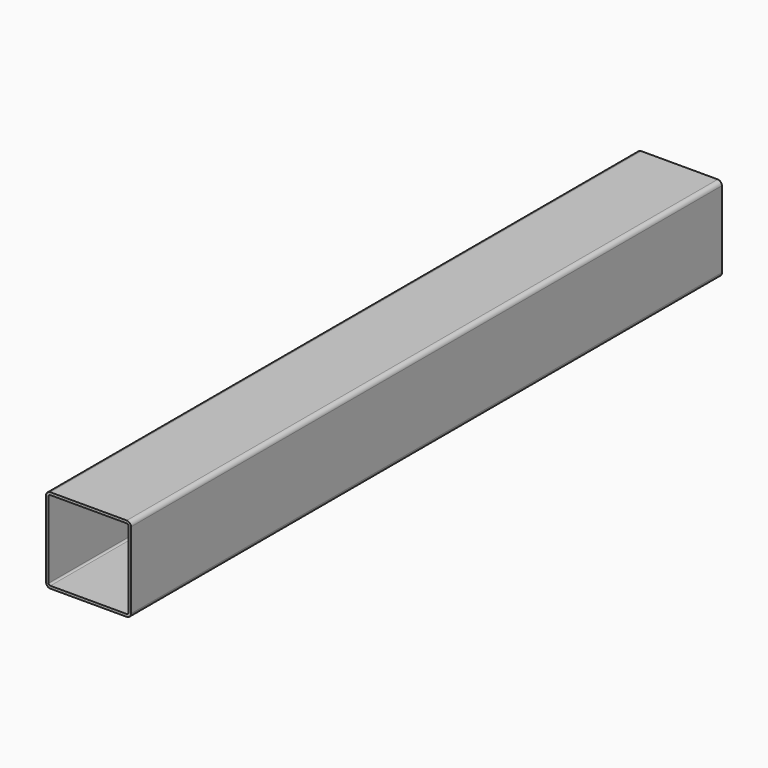
from build123d import *

# Parameters (mm, degrees)
F1_DEPTH = 870


with BuildPart() as f1:
    # F0 (on Front) → F1 (new body)
    with BuildSketch(Plane.XZ):
        with BuildLine():
            ThreePointArc((50, 45), (48.535534, 48.535534), (45, 50))
            Line((45, 50), (-45, 50))
            ThreePointArc((-45, 50), (-48.535534, 48.535534), (-50, 45))
            Line((-50, 45), (-50, -45))
            ThreePointArc((-50, -45), (-48.535534, -48.535534), (-45, -50))
            Line((-45, -50), (45, -50))
            ThreePointArc((45, -50), (48.535534, -48.535534), (50, -45))
            Line((50, -45), (50, 45))
        make_face()
        with BuildLine():
            ThreePointArc((-47, 45), (-46.414214, 46.414214), (-45, 47))
            Line((-45, 47), (45, 47))
            ThreePointArc((45, 47), (46.414214, 46.414214), (47, 45))
            Line((47, 45), (47, -45))
            ThreePointArc((47, -45), (46.414214, -46.414214), (45, -47))
            Line((45, -47), (-45, -47))
            ThreePointArc((-45, -47), (-46.414214, -46.414214), (-47, -45))
            Line((-47, -45), (-47, 45))
        make_face(mode=Mode.SUBTRACT)
    extrude(amount=-F1_DEPTH)


solid = f1.part
